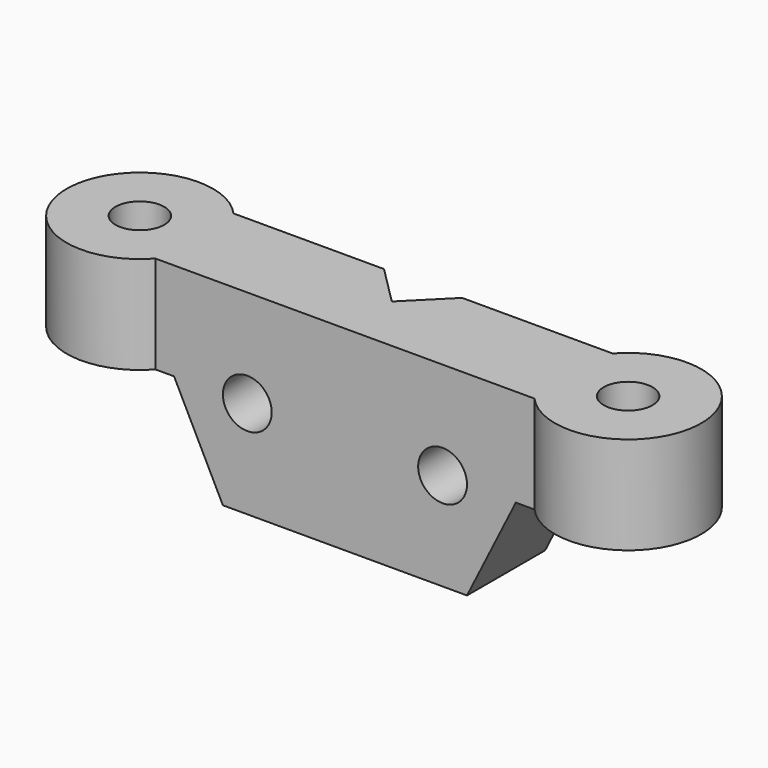
from build123d import *

# Parameters (mm, degrees)
SKETCH003_R      = 2.5
EXTRUDE003_DEPTH = 10
EXTRUDE002_DEPTH = 10
EXTRUDE001_DEPTH = 10
SKETCH_R         = 2.5
EXTRUDE_DEPTH    = 10


with BuildPart() as extrude003:
    # Sketch003 (on Cut) → Extrude003 (new body)
    with BuildSketch(Plane.XZ):
        with Locations((9.41, 0)):
            Circle(SKETCH003_R)
        with Locations((29.41, 0)):
            Circle(SKETCH003_R)
    extrude(amount=-EXTRUDE003_DEPTH)


with BuildPart() as extrude002:
    # Sketch002 (on Fusion) → Extrude002 (new body, symmetric)
    with BuildSketch(Plane(origin=(0, 10, 0), x_dir=(1, 0, 0), z_dir=(0, 0, 1))):
        Polygon((15.41, 0), (19.41, -4), (23.41, 0), align=None)
    extrude(amount=EXTRUDE002_DEPTH, both=True)


with BuildPart() as extrude001:
    # Sketch001 (on Extrude) → Extrude001 (new body)
    with BuildSketch(Plane.XZ):
        Polygon((1.91, 0), (36.91, 0), (31.91, -10), (6.91, -10), align=None)
    extrude(amount=-EXTRUDE001_DEPTH)


with BuildPart() as cut001:
    # Sketch → Extrude (new body)
    with BuildSketch(Plane.XY):
        with BuildLine():
            Line((0, 0), (38.81966, 0))
            ThreePointArc((38.81966, 0), (51.90983, 5), (38.81966, 10))
            Line((38.81966, 10), (0, 10))
            ThreePointArc((0, 10), (-13.09017, 5), (0, 0))
        make_face()
        with Locations((-5.59017, 5)):
            Circle(SKETCH_R, mode=Mode.SUBTRACT)
        with Locations((44.40983, 5)):
            Circle(SKETCH_R, mode=Mode.SUBTRACT)
    extrude(amount=EXTRUDE_DEPTH)

    # Fusion: union Extrude001
    add(extrude001.part)

    # Cut: cut Extrude002
    add(extrude002.part, mode=Mode.SUBTRACT)

    # Cut001: cut Extrude003
    add(extrude003.part, mode=Mode.SUBTRACT)


solid = cut001.part
